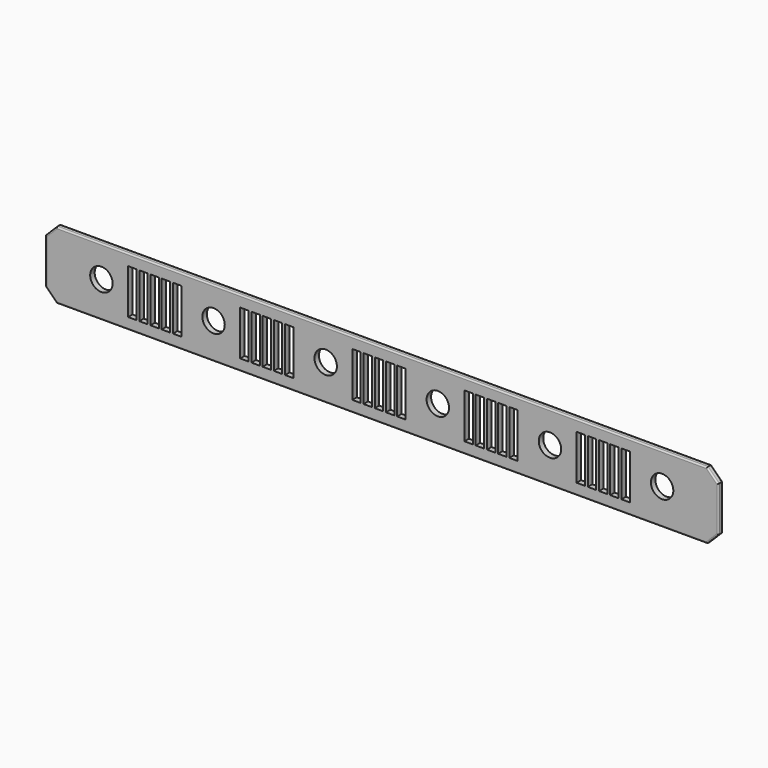
from build123d import *

# Parameters (mm, degrees)
F0_W     = 762
F0_H     = 76.2
F0_R     = 12.7
F1_DEPTH = 6.35
F2_W     = 9.525
F2_H     = 50.8
F3_DEPTH = 6.351
F4_SIZE  = 12.7
F5_R     = 1.6002


with BuildPart() as f1:
    # F0 (on Front) → F1 (new body)
    with BuildSketch(Plane.XZ):
        with Locations((317.5, -2.3671598174)):
            Rectangle(F0_W, F0_H)
        Circle(F0_R, mode=Mode.SUBTRACT)
        with Locations((127, 0)):
            Circle(F0_R, mode=Mode.SUBTRACT)
        with Locations((254, 0)):
            Circle(F0_R, mode=Mode.SUBTRACT)
        with Locations((381, 0)):
            Circle(F0_R, mode=Mode.SUBTRACT)
        with Locations((508, 0)):
            Circle(F0_R, mode=Mode.SUBTRACT)
        with Locations((635, 0)):
            Circle(F0_R, mode=Mode.SUBTRACT)
    extrude(amount=F1_DEPTH)

    # F2 (on face) → F3 (cut, through all)
    with BuildSketch(Plane.XZ.offset(6.35)):
        with Locations((34.9377, -2.3671598174)):
            Rectangle(F2_W, F2_H)
        with Locations((47.6377, -2.3671598174)):
            Rectangle(F2_W, F2_H)
        with Locations((60.3377, -2.3671598174)):
            Rectangle(F2_W, F2_H)
        with Locations((73.0377, -2.3671598174)):
            Rectangle(F2_W, F2_H)
        with Locations((85.7377, -2.3671598174)):
            Rectangle(F2_W, F2_H)
        with Locations((161.9377, -2.3671598174)):
            Rectangle(F2_W, F2_H)
        with Locations((174.6377, -2.3671598174)):
            Rectangle(F2_W, F2_H)
        with Locations((187.3377, -2.3671598174)):
            Rectangle(F2_W, F2_H)
        with Locations((200.0377, -2.3671598174)):
            Rectangle(F2_W, F2_H)
        with Locations((212.7377, -2.3671598174)):
            Rectangle(F2_W, F2_H)
        with Locations((288.9377, -2.3671598174)):
            Rectangle(F2_W, F2_H)
        with Locations((301.6377, -2.3671598174)):
            Rectangle(F2_W, F2_H)
        with Locations((314.3377, -2.3671598174)):
            Rectangle(F2_W, F2_H)
        with Locations((327.0377, -2.3671598174)):
            Rectangle(F2_W, F2_H)
        with Locations((339.7377, -2.3671598174)):
            Rectangle(F2_W, F2_H)
        with Locations((415.9377, -2.3671598174)):
            Rectangle(F2_W, F2_H)
        with Locations((428.6377, -2.3671598174)):
            Rectangle(F2_W, F2_H)
        with Locations((441.3377, -2.3671598174)):
            Rectangle(F2_W, F2_H)
        with Locations((454.0377, -2.3671598174)):
            Rectangle(F2_W, F2_H)
        with Locations((466.7377, -2.3671598174)):
            Rectangle(F2_W, F2_H)
        with Locations((542.9377, -2.3671598174)):
            Rectangle(F2_W, F2_H)
        with Locations((555.6377, -2.3671598174)):
            Rectangle(F2_W, F2_H)
        with Locations((568.3377, -2.3671598174)):
            Rectangle(F2_W, F2_H)
        with Locations((581.0377, -2.3671598174)):
            Rectangle(F2_W, F2_H)
        with Locations((593.7377, -2.3671598174)):
            Rectangle(F2_W, F2_H)
    extrude(amount=-F3_DEPTH, mode=Mode.SUBTRACT)

    # F4
    f4_edges = [f1.edges().sort_by_distance(p)[0] for p in [
        (-63.5, -3.175, 35.73284),
        (-63.5, -3.175, -40.46716),
        (698.5, -3.175, 35.73284),
        (698.5, -3.175, -40.46716),
    ]]
    chamfer(f4_edges, length=F4_SIZE)

    # F5
    f5_edges = [f1.edges().sort_by_distance(p)[0] for p in [
        (317.5, -6.35, 35.73284),
        (317.5, 0, 35.73284),
        (317.5, -6.35, -40.46716),
        (317.5, 0, -40.46716),
        (-63.5, -6.35, -2.36716),
        (-63.5, 0, -2.36716),
        (698.5, -6.35, -2.36716),
        (698.5, 0, -2.36716),
        (-57.15, -6.35, -34.11716),
        (-57.15, 0, -34.11716),
        (692.15, -6.35, 29.38284),
        (692.15, 0, 29.38284),
        (692.15, -6.35, -34.11716),
        (692.15, 0, -34.11716),
        (-57.15, -6.35, 29.38284),
        (-57.15, 0, 29.38284),
    ]]
    fillet(f5_edges, radius=F5_R)


solid = f1.part
